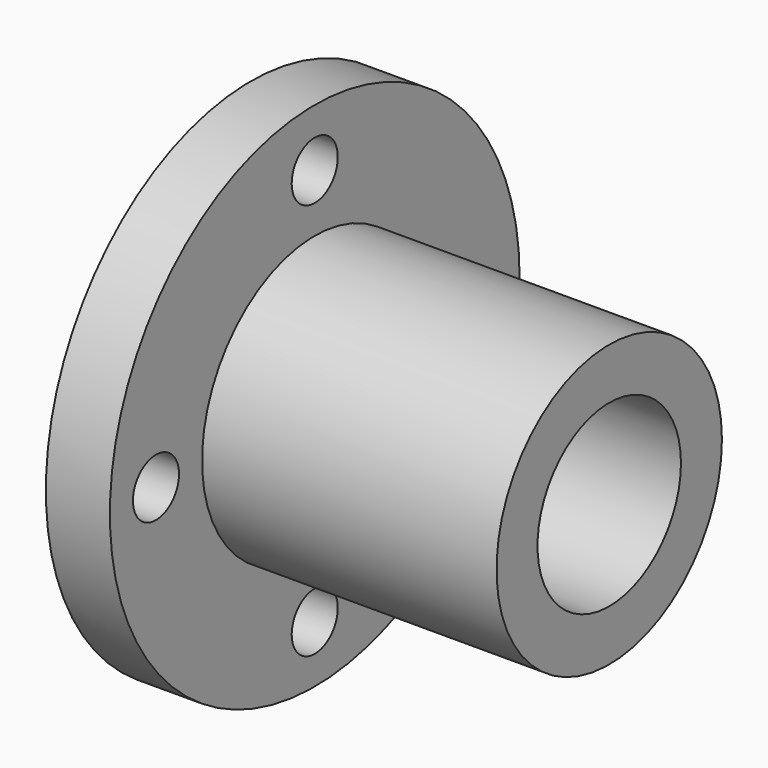
from build123d import *

# Parameters (mm, degrees)
SKETCH001_R  = 2.25
POCKET_DEPTH = 5


with BuildPart() as part:
    # Sketch → Revolution (revolve)
    with BuildSketch(Plane.XY):
        Polygon((0, 7), (0, 20), (5, 20), (5, 11), (28, 11), (28, 7), align=None)
    revolve(axis=Axis((0, 0, 0), (1, 0, 0)))

    # Sketch001 (on Face1 of Revolution) → Pocket (cut)
    with BuildSketch(Plane(origin=(0, 0, 0), x_dir=(0, -1, 0), z_dir=(-1, 0, 0))):
        with Locations((0, 15.5)):
            Circle(SKETCH001_R)
        with Locations((15.5, 0)):
            Circle(SKETCH001_R)
        with Locations((0, -15.5)):
            Circle(SKETCH001_R)
        with Locations((-15.5, 0)):
            Circle(SKETCH001_R)
    extrude(amount=-POCKET_DEPTH, mode=Mode.SUBTRACT)


solid = part.part
